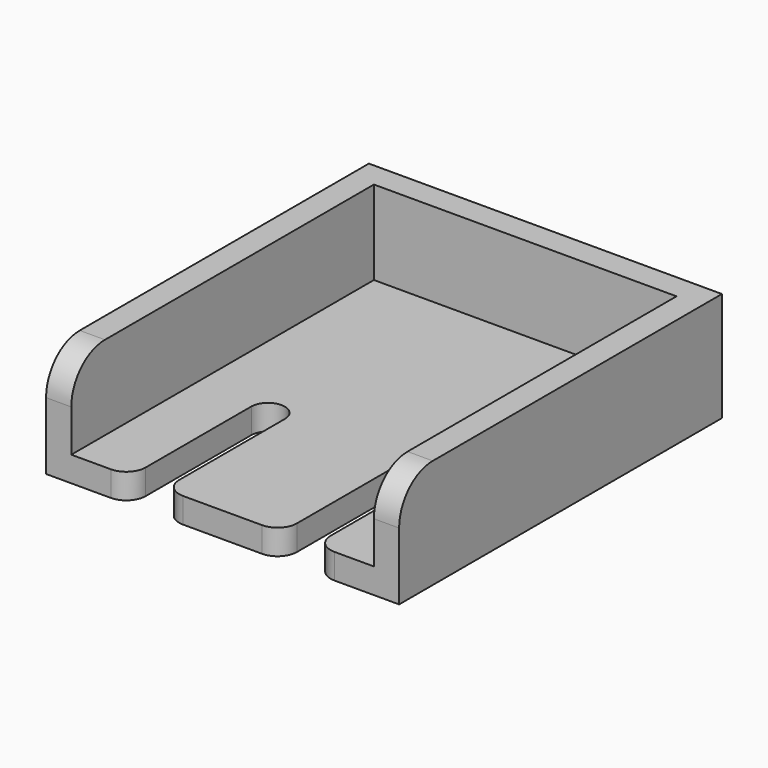
from build123d import *

# Parameters (mm, degrees)
F0_W          = 36
F0_H          = 45
F1_DEPTH      = 3
F3_DEPTH      = 3
F5_DEPTH      = 10
F5_DEPTH_BACK = 3
F6_R          = 2.3
F7_R          = 5


with BuildPart() as f1:
    # F0 (on Top) → F1 (new body)
    with BuildSketch(Plane.XY):
        Rectangle(F0_W, F0_H)
    extrude(amount=F1_DEPTH)

    # F2 (on face) → F3 (cut)
    with BuildSketch(Plane.XY.offset(3)):
        with BuildLine():
            Line((-7, -22.5), (-7, -4.5))
            ThreePointArc((-7, -4.5), (-8.9668645083, -2.500274509), (-10.9989020392, -4.4337381126))
            Line((-10.9989020392, -4.4337381126), (-10.9989020392, -4.5662618874))
            Line((-10.9989020392, -4.5662618874), (-10.9989020392, -22.5))
            Line((-10.9989020392, -22.5), (-7, -22.5))
        make_face()
        with BuildLine():
            Line((7, -4.5), (7, -22.5))
            Line((7, -22.5), (10.9989020392, -22.5))
            Line((10.9989020392, -22.5), (10.9989020392, -4.5662618874))
            Line((10.9989020392, -4.5662618874), (10.9989020392, -4.4337381126))
            ThreePointArc((10.9989020392, -4.4337381126), (8.9668645083, -2.500274509), (7, -4.5))
        make_face()
    extrude(amount=-F3_DEPTH, mode=Mode.SUBTRACT)

    # F4 (on face) → F5 (join, two sides)
    with BuildSketch(Plane.XY.offset(3)) as f5_sk:
        Polygon((18, -22.5), (20.9999997169, -22.5), (20.9999997169, 25.4999997169), (-20.9999997169, 25.4999997169), (-20.9999997169, -22.5), (-18, -22.5), (-18, 22.5), (18, 22.5), align=None)
    extrude(amount=F5_DEPTH)
    extrude(f5_sk.sketch, amount=-F5_DEPTH_BACK)

    # F6
    f6_edges = [f1.edges().sort_by_distance(p)[0] for p in [
        (-10.998902, -22.5, 1.5),
        (-7, -22.5, 1.5),
        (7, -22.5, 1.5),
        (10.998902, -22.5, 1.5),
    ]]
    fillet(f6_edges, radius=F6_R)

    # F7
    f7_edges = [f1.edges().sort_by_distance(p)[0] for p in [
        (-19.5, -22.5, 13),
        (19.5, -22.5, 13),
    ]]
    fillet(f7_edges, radius=F7_R)


solid = f1.part
